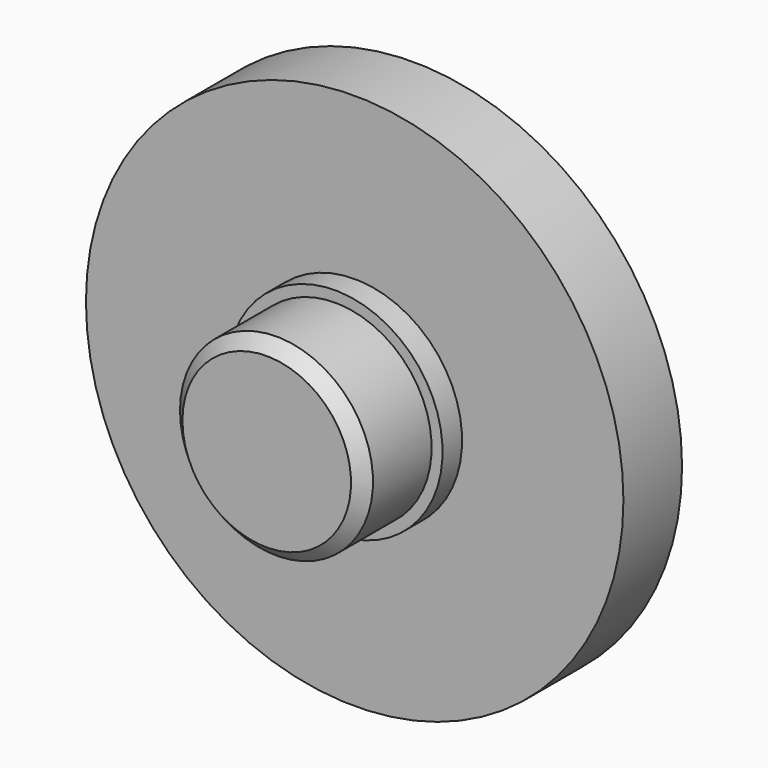
from build123d import *

# Parameters (mm, degrees)
F2_SIZE = 0.5


with BuildPart() as f1:
    # F0 (on Top) → F1 (revolve)
    with BuildSketch(Plane.XY):
        with BuildLine():
            ThreePointArc((0, 6.937257), (-5.506382, 7.093876), (-11, 7.5))
            Line((-11, 7.5), (-11, 4.5))
            Line((-11, 4.5), (-4.396255, 4.5))
            Line((-4.396255, 4.5), (-4.396255, 3.5))
            Line((-4.396255, 3.5), (-3.95, 3.5))
            Line((-3.95, 3.5), (-3.95, 0))
            Line((-3.95, 0), (0, 0))
            Line((0, 0), (0, 6.937257))
        make_face()
    revolve(axis=Axis((0, 3.75, 0), (0, 1, 0)))

    # F2
    f2_edges = [f1.edges().sort_by_distance(p)[0] for p in [
        (3.95, 0, 0),
    ]]
    chamfer(f2_edges, length=F2_SIZE)


solid = f1.part
